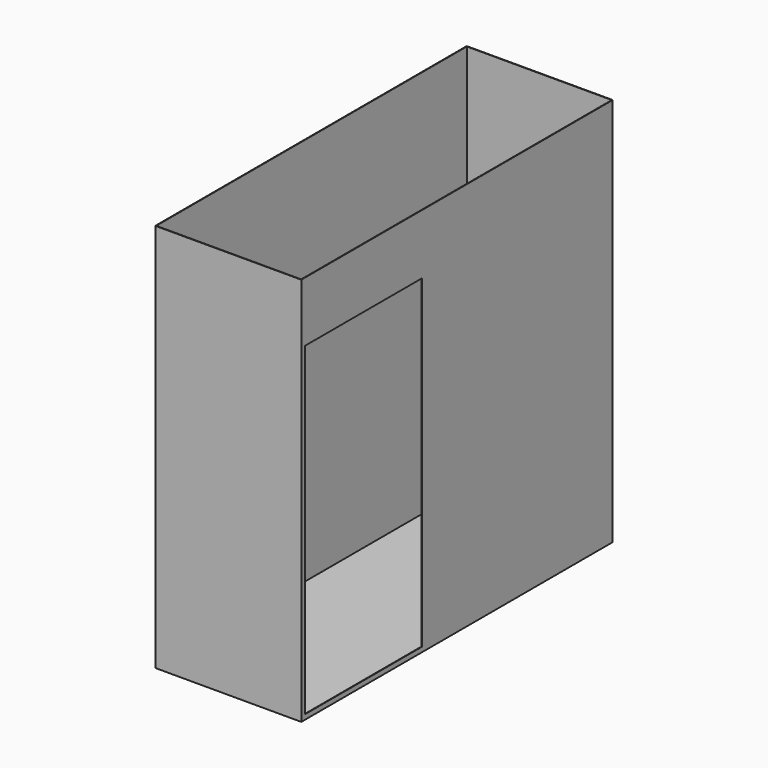
from build123d import *

# Parameters (mm, degrees)
F0_W     = 914.4
F0_H     = 2438.4
F1_DEPTH = 2438.4
F2_T     = -3.048
F3_R     = 50.8
F4_DEPTH = 914.4
F5_R     = 50.8
F6_DEPTH = 30.48
F7_W     = 914.4
F7_H     = 2032
F8_DEPTH = 30.48


with BuildPart() as f1:
    # F0 (on Top) → F1 (new body)
    with BuildSketch(Plane.XY):
        with Locations((457.2, 1219.2)):
            Rectangle(F0_W, F0_H)
    extrude(amount=F1_DEPTH)

    # F2
    f2_openings = [f1.faces().sort_by_distance(p)[0] for p in [
        (457.2, 1219.2, 2438.4),
    ]]
    offset(amount=F2_T, openings=f2_openings)

    # F3 (on face) → F4 (cut)
    with BuildSketch(Plane(origin=(0, 0, 0), x_dir=(1, 0, 0), z_dir=(0, 0, -1))):
        with Locations((457.2, -2384.552)):
            Circle(F3_R)
        with Locations((53.848, -685.8)):
            Circle(F3_R)
    extrude(amount=-F4_DEPTH, mode=Mode.SUBTRACT)

    # F5 (on face) → F6 (cut)
    with BuildSketch(Plane(origin=(0, 0, 0), x_dir=(0, -1, 0), z_dir=(-1, 0, 0))):
        with Locations((-2184.4, 406.4)):
            Circle(F5_R)
    extrude(amount=-F6_DEPTH, mode=Mode.SUBTRACT)

    # F7 (on face) → F8 (cut)
    with BuildSketch(Plane.YZ.offset(914.4)):
        with Locations((487.68, 1046.48)):
            Rectangle(F7_W, F7_H)
    extrude(amount=-F8_DEPTH, mode=Mode.SUBTRACT)


solid = f1.part
